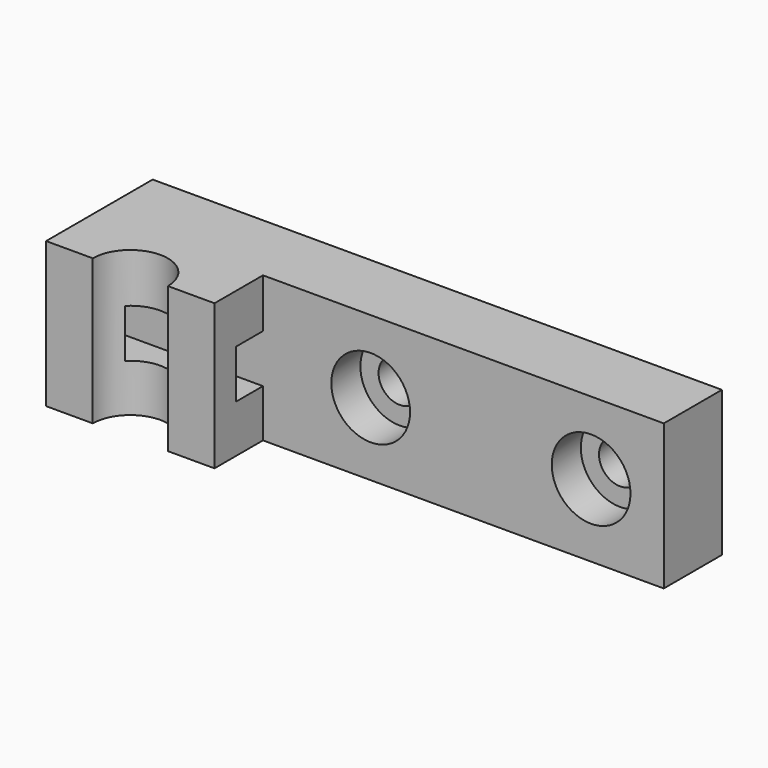
from build123d import *

# Parameters (mm, degrees)
F1_DEPTH = 12
F2_R     = 3.1
F3_DEPTH = 12.001
F4_R     = 1.75
F5_DEPTH = 6.001
F6_R     = 3.25
F7_DEPTH = 3
F8_W     = 2.8
F8_H     = 4
F9_DEPTH = 13.90725


with BuildPart() as f1:
    # F0 (on Top) → F1 (new body)
    with BuildSketch(Plane.XY):
        Polygon((-13.285446, 0), (19.808304, 0), (19.808304, 6), (-27.191696, 6), (-27.191696, -5), (-13.285446, -5), align=None)
    extrude(amount=F1_DEPTH)

    # F2 (on face) → F3 (cut, through all)
    with BuildSketch(Plane.XY.offset(12)):
        with Locations((-20.238571, -5)):
            Circle(F2_R)
    extrude(amount=-F3_DEPTH, mode=Mode.SUBTRACT)

    # F4 (on face) → F5 (cut, through all)
    with BuildSketch(Plane.XZ):
        with Locations((13.808304, 6)):
            Circle(F4_R)
        with Locations((-4.391696, 6)):
            Circle(F4_R)
    extrude(amount=-F5_DEPTH, mode=Mode.SUBTRACT)

    # F6 (on face) → F7 (cut)
    with BuildSketch(Plane.XZ):
        with Locations((-4.391696, 6)):
            Circle(F6_R)
        with Locations((13.808304, 6)):
            Circle(F6_R)
    extrude(amount=-F7_DEPTH, mode=Mode.SUBTRACT)

    # F8 (on face) → F9 (cut, through all)
    with BuildSketch(Plane.YZ.offset(-13.285446)):
        with Locations((-1.4, 5.94657)):
            Rectangle(F8_W, F8_H)
    extrude(amount=-F9_DEPTH, mode=Mode.SUBTRACT)


solid = f1.part
